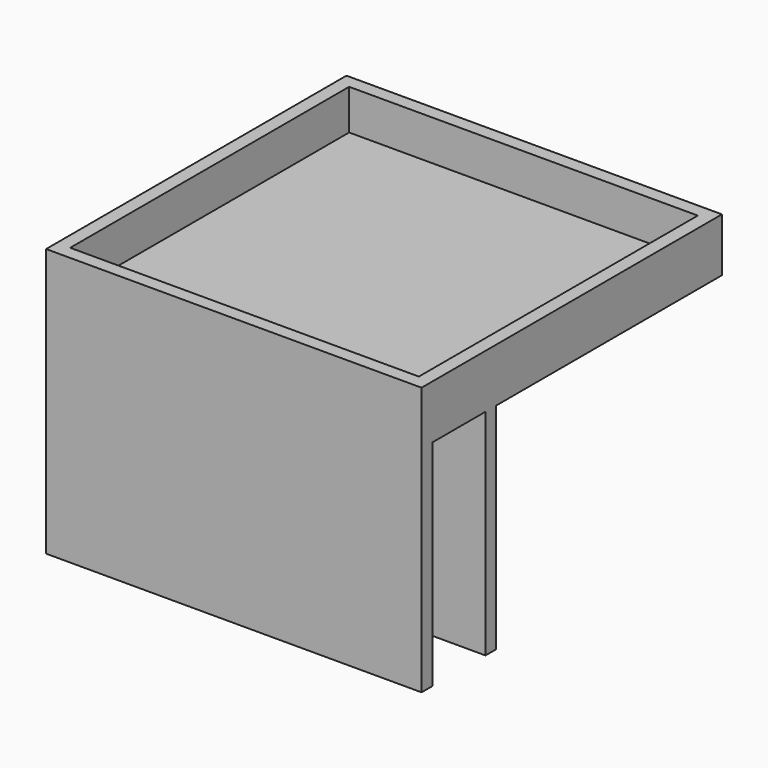
from build123d import *

# Parameters (mm, degrees)
F0_W     = 177.8
F0_H     = 177.8
F0_W_2   = 165.1
F0_H_2   = 165.1
F1_DEPTH = 25.4
F2_DEPTH = 6.35
F4_DEPTH = 101.6
F6_DEPTH = 101.6


with BuildPart() as f1:
    # F0 (on Top) → F1 (new body)
    with BuildSketch(Plane.XY):
        with Locations((88.9, 88.9)):
            Rectangle(F0_W, F0_H)
        with Locations((88.9, 88.9)):
            Rectangle(F0_W_2, F0_H_2, mode=Mode.SUBTRACT)
    extrude(amount=F1_DEPTH)

    # F0 (on Top) → F2 (join)
    with BuildSketch(Plane.XY):
        with Locations((88.9, 88.9)):
            Rectangle(F0_W_2, F0_H_2)
    extrude(amount=F2_DEPTH)

    # F3 (on face) → F4 (join)
    with BuildSketch(Plane(origin=(0, 0, 0), x_dir=(1, 0, 0), z_dir=(0, 0, -1))):
        Polygon((177.8, 0), (0, 0), (0, -177.8), (6.35, -177.8), (6.35, -6.35), (177.8, -6.35), align=None)
    extrude(amount=F4_DEPTH)

    # F5 (on face) → F6 (join)
    with BuildSketch(Plane(origin=(0, 0, 0), x_dir=(1, 0, 0), z_dir=(0, 0, -1))):
        Polygon((37.846, -37.846), (37.846, -177.8), (44.196, -177.8), (44.196, -44.196), (177.8, -44.196), (177.8, -37.846), align=None)
    extrude(amount=F6_DEPTH)


solid = f1.part
